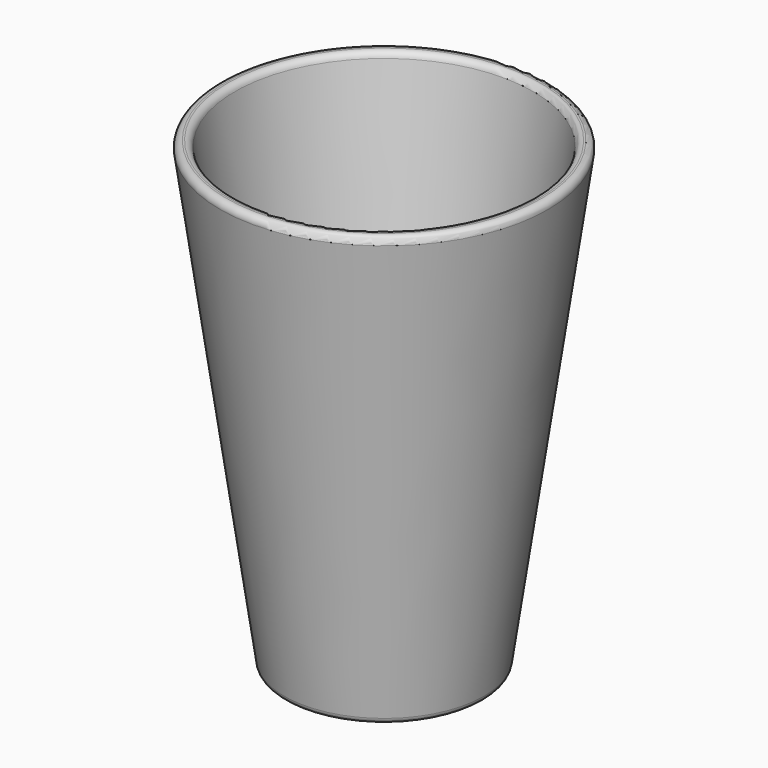
from build123d import *

# Parameters (mm, degrees)
FILLET_R = 1


with BuildPart() as cone001:
    # Cone001 → Cone001 (revolve)
    with BuildSketch(Plane(origin=(0, 0, 2), x_dir=(1, 0, 0), z_dir=(0, -1, 0))):
        Polygon((0, 0), (13, 0), (23, 70), (0, 70), align=None)
    revolve(axis=Axis((0, 0, 2), (0, 0, 1)))


with BuildPart() as fillet_body:
    # Cone → Cone (revolve)
    with BuildSketch(Plane.XZ):
        Polygon((0, 0), (15, 0), (25, 70), (0, 70), align=None)
    revolve(axis=Axis((0, 0, 0), (0, 0, 1)))

    # Cut: cut Cone001
    add(cone001.part, mode=Mode.SUBTRACT)

    # Fillet
    fillet_edges = [fillet_body.edges().sort_by_distance(p)[0] for p in [
        (-25, 0, 70),
        (-15, 0, 0),
        (-22.714286, 0, 70),
        (-13, 0, 2),
    ]]
    fillet(fillet_edges, radius=FILLET_R)


solid = fillet_body.part
